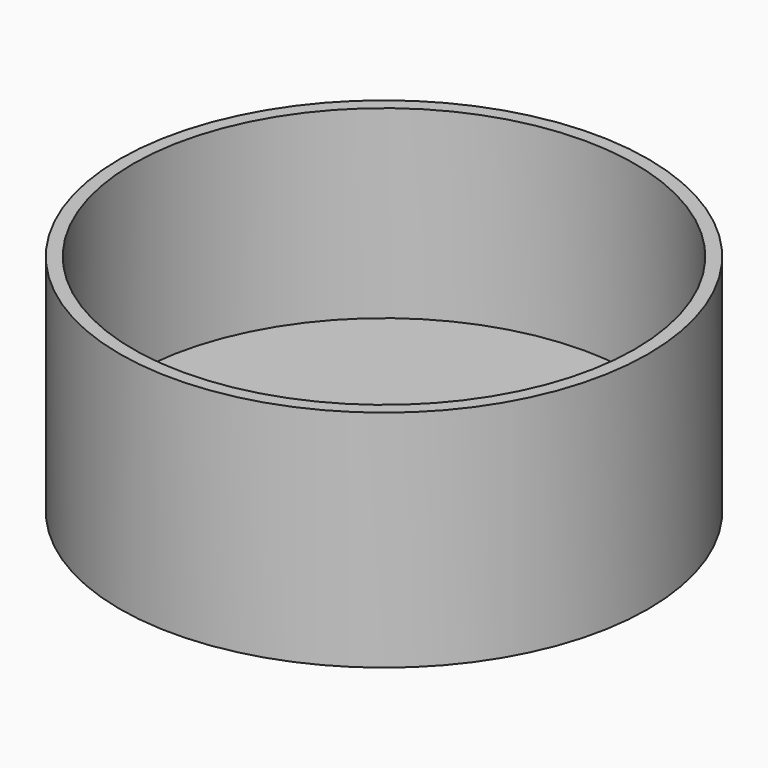
from build123d import *

# Parameters (mm, degrees)
CYLINDER004_R     = 19
CYLINDER004_DEPTH = 15
CYLINDER003_R     = 20
CYLINDER003_DEPTH = 17


with BuildPart() as cylinder001:
    # Cylinder004 → Cylinder004 (new body)
    with BuildSketch(Plane.XY.offset(3)):
        Circle(CYLINDER004_R)
    extrude(amount=CYLINDER004_DEPTH)


with BuildPart() as obj1:
    # Cylinder003 → Cylinder003 (new body)
    with BuildSketch(Plane.XY):
        Circle(CYLINDER003_R)
    extrude(amount=CYLINDER003_DEPTH)

    # Cut003: cut Cylinder001
    add(cylinder001.part, mode=Mode.SUBTRACT)


with BuildPart() as obj1_1:
    # Cut003 placement: moved
    add(obj1.part.moved(Location((0, 0, -39))))


solid = obj1_1.part
